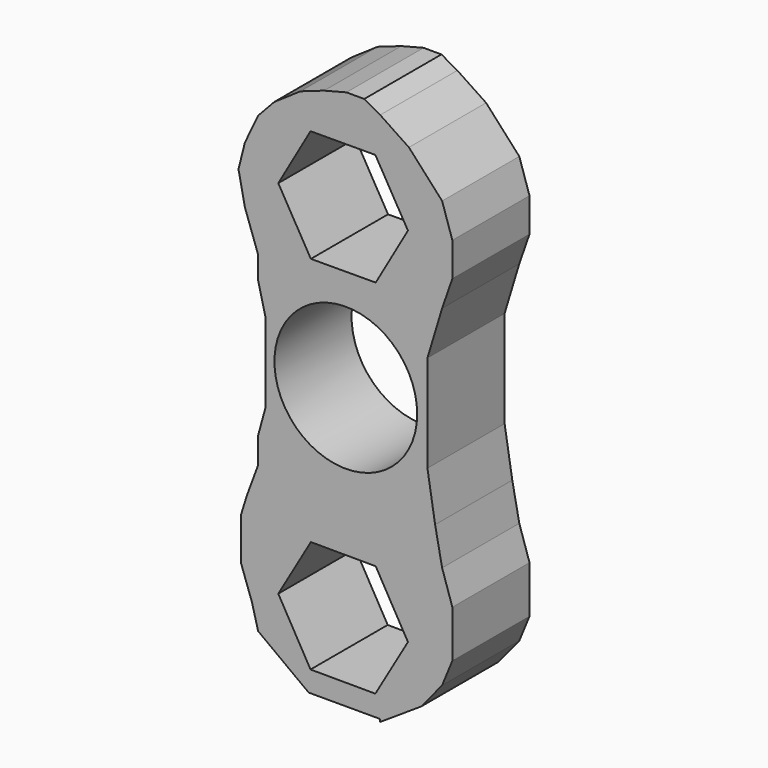
from build123d import *

# Parameters (mm, degrees)
F0_R     = 10.9
F1_DEPTH = 14.732


with BuildPart() as f1:
    # F0 (on Front) → F1 (new body)
    with BuildSketch(Plane.XZ):
        Polygon((10.065964, 50.761367), (6.456376, 49.49288), (2.45947, 46.763286), (0, 44.131174), (-2.024869, 39.841811), (-2.999724, 35.942386), (-2.024869, 31.165595), (0, 25.413946), (0, 22.001951), (1.09467, 17.517616), (1.09467, 8.451459), (1.09467, 5.13695), (0, 1.140108), (0, -2.856889), (-1.732659, -7.536301), (-2.610176, -10.363446), (-2.610176, -13.19059), (-2.610176, -16.895124), (-0.953385, -21.574536), (0, -25.181582), (7.722604, -30.933358), (18.641215, -30.933358), (18.641215, -31.32331), (24.880612, -27.228824), (28.097883, -23.329314), (29.657858, -19.527293), (29.657858, -16.895124), (29.657858, -12.3132), (28.097883, -7.536301), (27.026469, -2.076987), (25.856924, 5.13695), (25.856924, 12.156223), (25.856924, 19.955242), (28.097883, 27.364309), (29.657858, 31.848747), (29.657858, 37.015595), (28.097883, 41.792495), (23.031681, 47.349298), (18.641215, 50.273932), (16.20773, 51.63876), (13.478043, 51.63876), align=None)
        Polygon((22.879082, -19.204851), (17.902447, -27.764871), (8.000935, -27.734988), (3.076058, -19.145086), (8.052694, -10.585066), (17.954206, -10.614949), align=None, mode=Mode.SUBTRACT)
        Polygon((17.902447, 44.667789), (22.879082, 36.10777), (17.954206, 27.517867), (8.052694, 27.487984), (3.076058, 36.048004), (8.000935, 44.637906), align=None, mode=Mode.SUBTRACT)
        with Locations((13.388105, 11.897694)):
            Circle(F0_R, mode=Mode.SUBTRACT)
    extrude(amount=F1_DEPTH)


solid = f1.part
